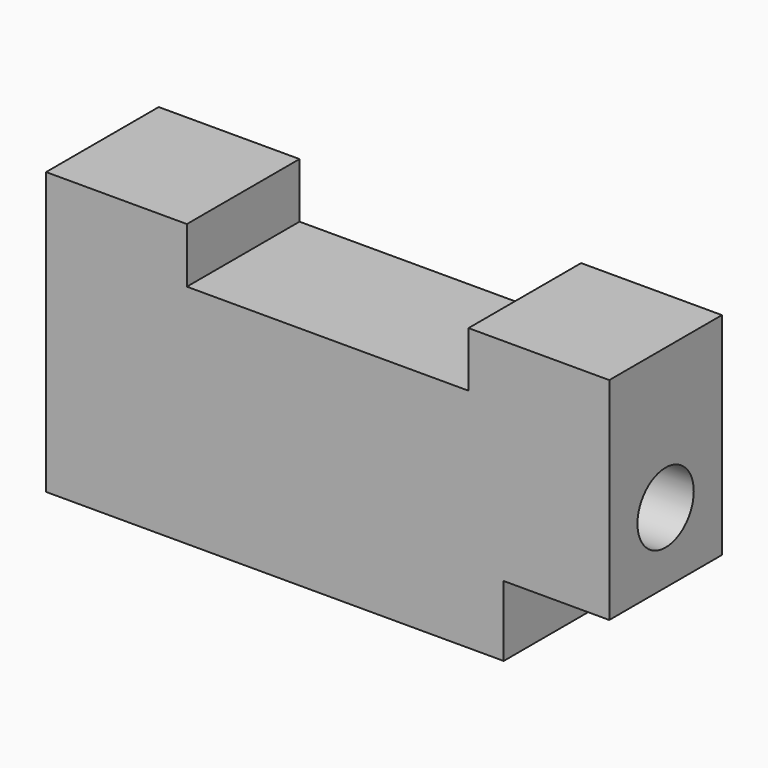
from build123d import *

# Parameters (mm, degrees)
F1_DEPTH = 25.4
F2_R     = 6.35
F3_DEPTH = 101.601


with BuildPart() as f1:
    # F0 (on Front) → F1 (new body)
    with BuildSketch(Plane.XZ):
        Polygon((-76.2, 22.59441), (-101.6, 22.59441), (-101.6, -28.20559), (-19.05, -28.20559), (-19.05, -15.50559), (0, -15.50559), (0, 22.59441), (-25.4, 22.59441), (-25.4, 12.650757), (-76.2, 12.650757), align=None)
    extrude(amount=F1_DEPTH)

    # F2 (on Right) → F3 (cut, through all)
    with BuildSketch(Plane.YZ):
        with Locations((-12.7, -2.80559)):
            Circle(F2_R)
    extrude(amount=-F3_DEPTH, mode=Mode.SUBTRACT)


solid = f1.part
